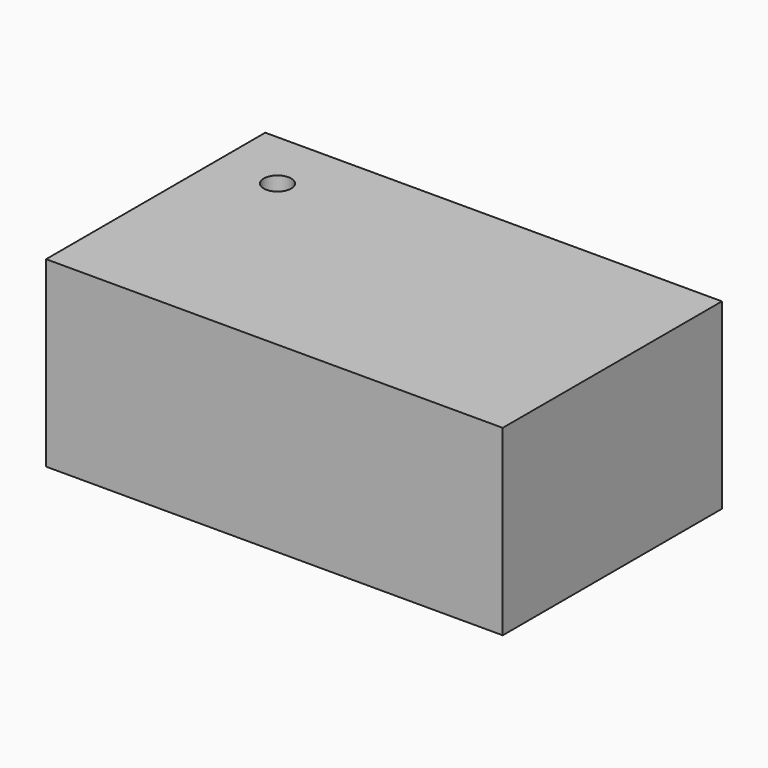
from build123d import *

# Parameters (mm, degrees)
F0_W     = 50
F0_H     = 30
F1_DEPTH = 10
F2_R     = 1.5
F2_R_2   = 0.2
F3_DEPTH = 9
F4_DEPTH = 12.5


with BuildPart() as f1:
    # F0 (on Top) → F1 (new body, symmetric)
    with BuildSketch(Plane.XY):
        with Locations((47.9385685176, -19.4164868116)):
            Rectangle(F0_W, F0_H)
    extrude(amount=F1_DEPTH, both=True)

    # F2 (on Top) → F3 (cut, symmetric)
    with BuildSketch(Plane.XY):
        with Locations((29.6385685176, -11.1164868116)):
            Circle(F2_R)
        with Locations((33.7385685176, -11.1164868116)):
            Circle(F2_R_2)
        with Locations((32.7793507344, -8.4810576119)):
            Circle(F2_R_2)
        with Locations((30.350526046, -7.0787750243)):
            Circle(F2_R_2)
        with Locations((27.5885685176, -7.5657826561)):
            Circle(F2_R_2)
        with Locations((25.7858287723, -9.714204224)):
            Circle(F2_R_2)
        with Locations((25.7858287723, -12.5187693993)):
            Circle(F2_R_2)
        with Locations((27.5885685176, -14.6671909672)):
            Circle(F2_R_2)
        with Locations((30.350526046, -15.154198599)):
            Circle(F2_R_2)
        with Locations((32.7793507344, -13.7519160114)):
            Circle(F2_R_2)
    extrude(amount=F3_DEPTH, both=True, mode=Mode.SUBTRACT)

    # F2 (on Top) → F4 (cut, symmetric)
    with BuildSketch(Plane.XY):
        with Locations((29.6385685176, -11.1164868116)):
            Circle(F2_R)
    extrude(amount=F4_DEPTH, both=True, mode=Mode.SUBTRACT)


solid = f1.part
